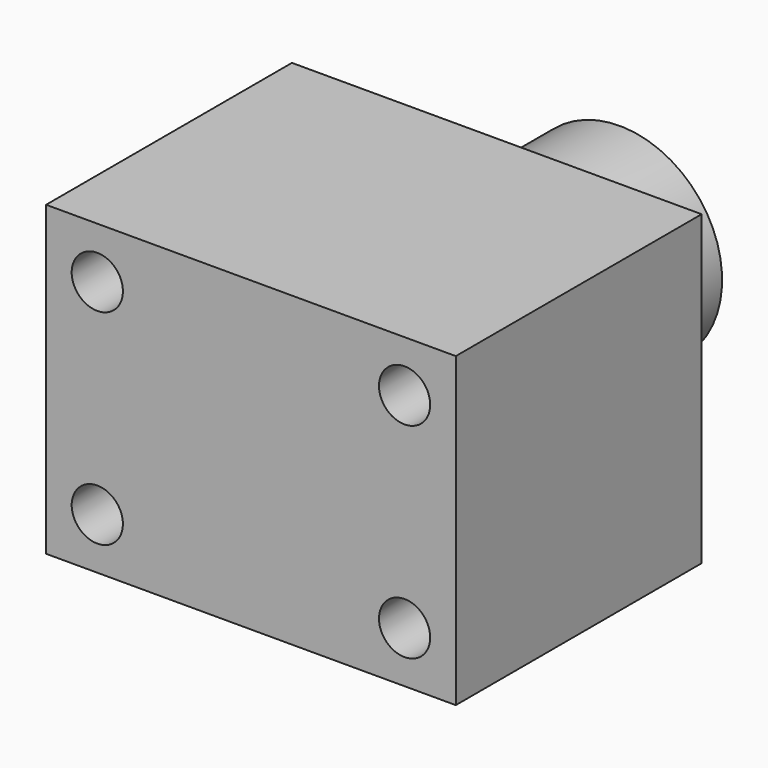
from build123d import *

# Parameters (mm, degrees)
F0_W     = 101.6
F0_H     = 76.2
F1_DEPTH = 76.2
F2_R     = 6.35
F3_DEPTH = 76.201
F4_W     = 25.4
F4_H     = 38.1


with BuildPart() as f1:
    # F0 (on Front) → F1 (new body)
    with BuildSketch(Plane.XZ):
        Rectangle(F0_W, F0_H)
    extrude(amount=F1_DEPTH)

    # F2 (on face) → F3 (cut, through all)
    with BuildSketch(Plane.XZ.offset(76.2)):
        with Locations((-38.1, 25.4)):
            Circle(F2_R)
        with Locations((-38.1, -25.4)):
            Circle(F2_R)
        with Locations((38.1, 25.4)):
            Circle(F2_R)
        with Locations((38.1, -25.4)):
            Circle(F2_R)
    extrude(amount=-F3_DEPTH, mode=Mode.SUBTRACT)

    # F4 (on Top) → F5 (revolve)
    with BuildSketch(Plane.XY):
        with Locations((-12.7, 19.05)):
            Rectangle(F4_W, F4_H)
    revolve(axis=Axis((0, 19.05, 0), (0, -1, 0)))

    # F6 (on Right) → F7 (revolve, cut)
    with BuildSketch(Plane.YZ):
        Polygon((12.171632, -25.511539), (27.484952, -25.241176), (27.484952, -15.148931), (12.171632, -15.148931), align=None)
    revolve(axis=Axis((0, -19.153455, 0), (0, -1, 0)), mode=Mode.SUBTRACT)


solid = f1.part
